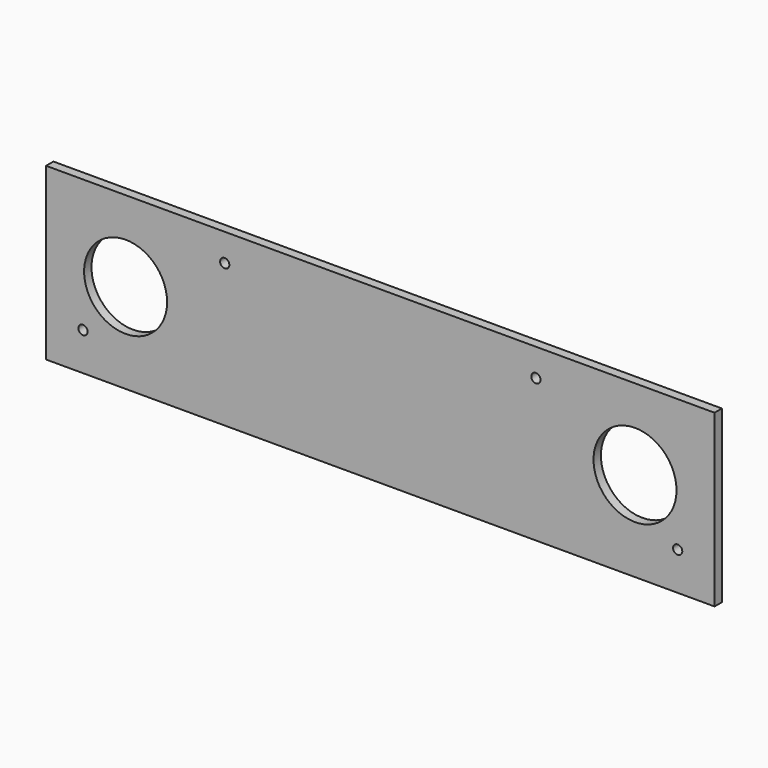
from build123d import *

# Parameters (mm, degrees)
F0_W     = 145
F0_H     = 35
F1_DEPTH = 2
F2_R     = 1
F3_DEPTH = 25
F4_R     = 1
F5_DEPTH = 25
F6_R     = 9
F7_DEPTH = 25
F8_W     = 145
F8_H     = 2
F9_DEPTH = 2


with BuildPart() as f1:
    # F0 (on Front) → F1 (new body)
    with BuildSketch(Plane.XZ):
        Rectangle(F0_W, F0_H)
    extrude(amount=F1_DEPTH)

    # F2 (on face) → F3 (cut)
    with BuildSketch(Plane.XZ.offset(2)):
        with Locations((-33.75, 11.5)):
            Circle(F2_R)
        with Locations((33.75, 11.5)):
            Circle(F2_R)
    extrude(amount=-F3_DEPTH, mode=Mode.SUBTRACT)

    # F4 (on face) → F5 (cut)
    with BuildSketch(Plane.XZ.offset(2)):
        with Locations((-64.5, -11.25)):
            Circle(F4_R)
        with Locations((64.5, -11.25)):
            Circle(F4_R)
    extrude(amount=-F5_DEPTH, mode=Mode.SUBTRACT)

    # F6 (on face) → F7 (cut)
    with BuildSketch(Plane.XZ.offset(2)):
        with Locations((-55.25, 0)):
            Circle(F6_R)
        with Locations((55.25, 0)):
            Circle(F6_R)
    extrude(amount=-F7_DEPTH, mode=Mode.SUBTRACT)

    # F8 (on face) → F9 (join)
    with BuildSketch(Plane(origin=(0, 0, -17.5), x_dir=(1, 0, 0), z_dir=(0, 0, -1))):
        with Locations((0, 1)):
            Rectangle(F8_W, F8_H)
    extrude(amount=F9_DEPTH)


solid = f1.part
